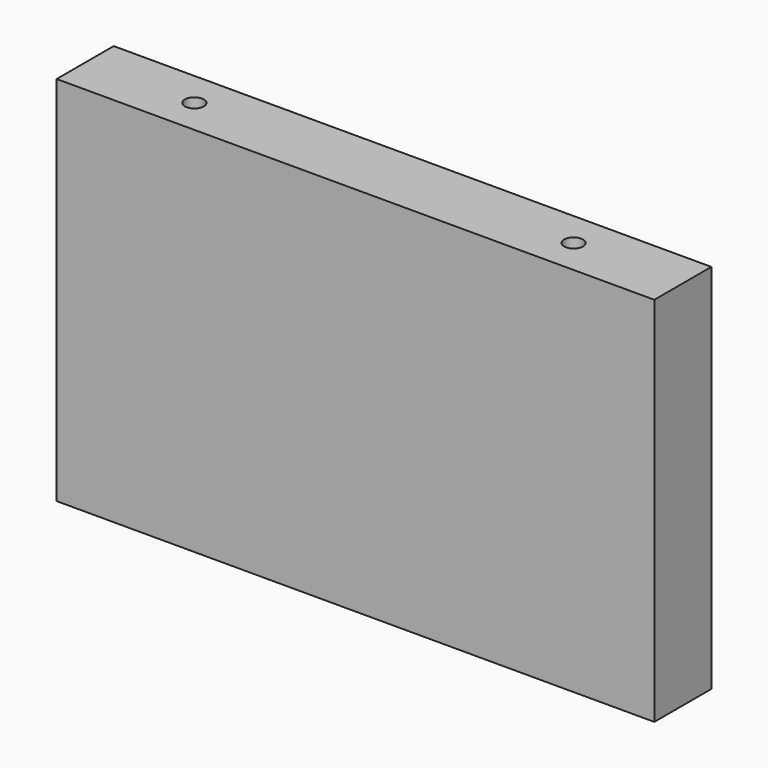
from build123d import *

# Parameters (mm, degrees)
F0_W     = 100.076
F0_H     = 62.23
F1_DEPTH = 11.938
F2_R     = 1.5875
F3_DEPTH = 25.4


with BuildPart() as f1:
    # F0 (on Front) → F1 (new body)
    with BuildSketch(Plane.XZ):
        with Locations((50.038, 31.115)):
            Rectangle(F0_W, F0_H)
    extrude(amount=F1_DEPTH)

    # F2 (on face) → F3 (cut)
    with BuildSketch(Plane.XY.offset(62.23)):
        with Locations((18.288, -5.969)):
            Circle(F2_R)
        with Locations((81.788, -5.969)):
            Circle(F2_R)
    extrude(amount=-F3_DEPTH, mode=Mode.SUBTRACT)


solid = f1.part
